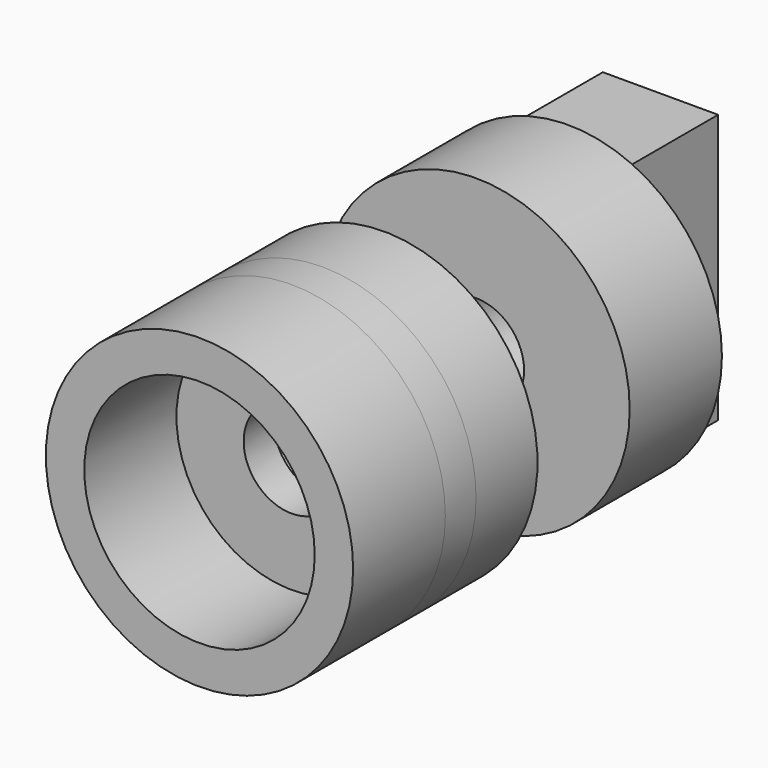
from build123d import *

# Parameters (mm, degrees)
F0_R      = 4
F1_DEPTH  = 1
F2_R      = 4
F2_R_2    = 3
F3_DEPTH  = 2
F4_R      = 1.25
F5_DEPTH  = 25
F6_R      = 4
F6_R_2    = 3
F7_DEPTH  = 3
F9_R      = 4
F10_DEPTH = 3
F12_R     = 1.25
F13_DEPTH = 3
F14_W     = 3
F14_H     = 7
F15_DEPTH = 3


with BuildPart() as f1:
    # F0 (on Front) → F1 (new body)
    with BuildSketch(Plane.XZ):
        Circle(F0_R)
    extrude(amount=F1_DEPTH)

    # F2 (on face) → F3 (join)
    with BuildSketch(Plane(origin=(0, 0, 0), x_dir=(-1, 0, 0), z_dir=(0, 1, 0))):
        Circle(F2_R)
        Circle(F2_R_2, mode=Mode.SUBTRACT)
    extrude(amount=F3_DEPTH)

    # F4 (on face) → F5 (cut)
    with BuildSketch(Plane.XZ.offset(1)):
        Circle(F4_R)
    extrude(amount=-F5_DEPTH, mode=Mode.SUBTRACT)


with BuildPart() as f7:
    # F6 (on face) → F7 (new body)
    with BuildSketch(Plane.XZ.offset(1)):
        Circle(F6_R)
        Circle(F6_R_2, mode=Mode.SUBTRACT)
    extrude(amount=F7_DEPTH)


with BuildPart() as f10:
    # F9 (on offset) → F10 (new body)
    with BuildSketch(Plane.XZ.offset(-5)):
        Circle(F9_R)
    extrude(amount=-F10_DEPTH)

    # F12 (on offset) → F13 (cut)
    with BuildSketch(Plane.XZ.offset(-5)):
        Circle(F12_R)
    extrude(amount=-F13_DEPTH, mode=Mode.SUBTRACT)

    # F14 (on face) → F15 (join)
    with BuildSketch(Plane(origin=(0, 8, 0), x_dir=(-1, 0, 0), z_dir=(0, 1, 0))):
        Rectangle(F14_W, F14_H)
    extrude(amount=F15_DEPTH)


solid = Compound([f1.part, f7.part, f10.part])
